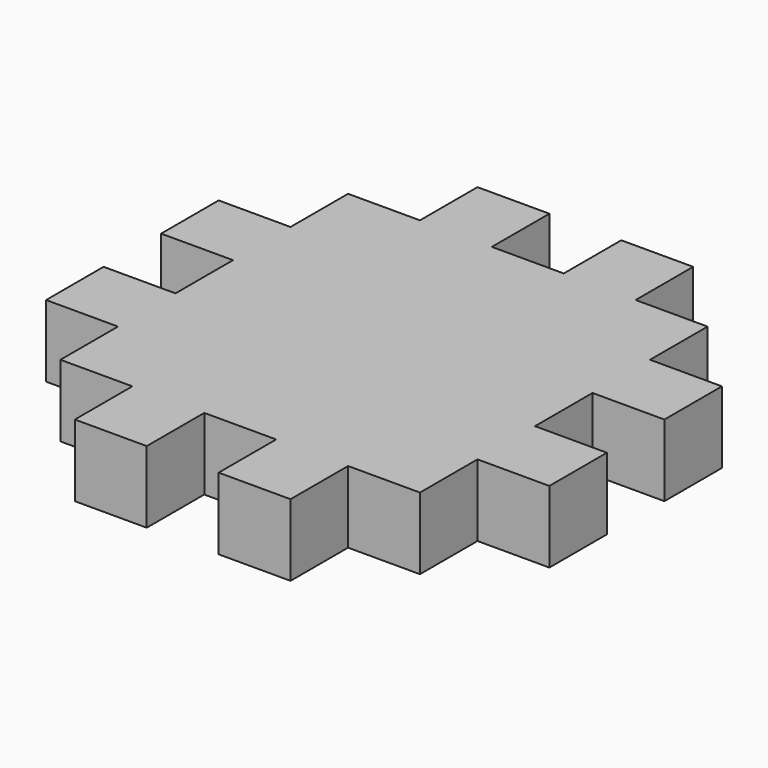
from build123d import *

# Parameters (mm, degrees)
F0_W     = 127
F0_H     = 127
F1_DEPTH = 127


with BuildPart() as f1:
    # F0 (on Top) → F1 (new body)
    with BuildSketch(Plane.XY):
        Polygon((-127, 0), (0, 0), (0, 127), (0, 254), (0, 381), (0, 508), (0, 635), (-127, 635), (-254, 635), (-381, 635), (-508, 635), (-635, 635), (-635, 508), (-635, 381), (-635, 254), (-635, 127), (-635, 0), (-508, 0), (-381, 0), (-254, 0), align=None)
        with Locations((-190.5, -63.5)):
            Rectangle(F0_W, F0_H)
        with Locations((63.5, 190.5)):
            Rectangle(F0_W, F0_H)
        with Locations((-444.5, -63.5)):
            Rectangle(F0_W, F0_H)
        with Locations((63.5, 444.5)):
            Rectangle(F0_W, F0_H)
        with Locations((-698.5, 190.5)):
            Rectangle(F0_W, F0_H)
        with Locations((-190.5, 698.5)):
            Rectangle(F0_W, F0_H)
        with Locations((-698.5, 444.5)):
            Rectangle(F0_W, F0_H)
        with Locations((-444.5, 698.5)):
            Rectangle(F0_W, F0_H)
    extrude(amount=F1_DEPTH)


solid = f1.part
